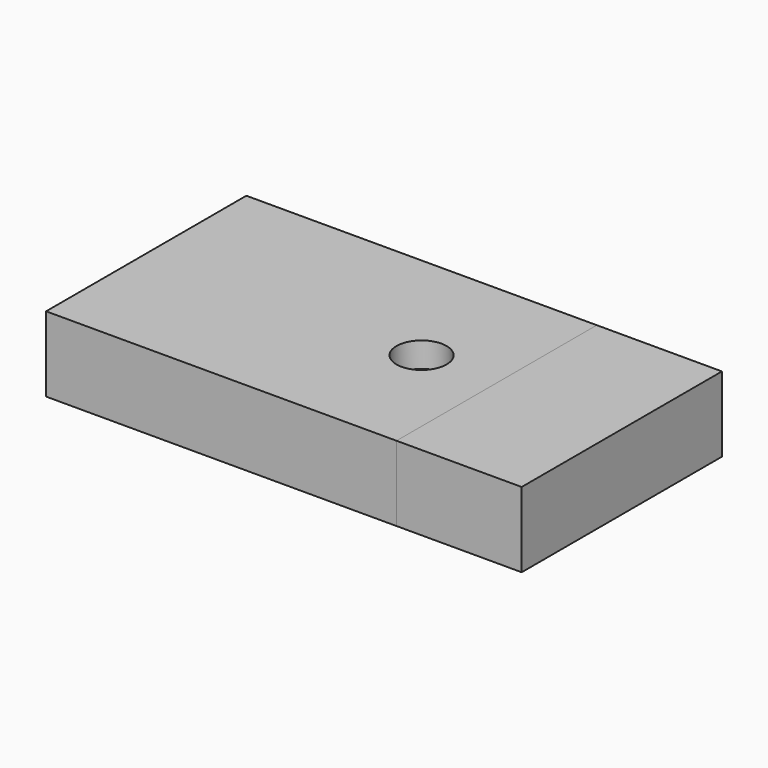
from build123d import *

# Parameters (mm, degrees)
F0_W     = 14
F0_H     = 10
F2_DEPTH = 3
F4_DEPTH = 10
F6_DEPTH = 10
F7_W     = 10
F7_H     = 3
F8_DEPTH = 5
F10_D    = 2
F10_2_D  = 2


with BuildPart() as f2:
    # F0 (on Top) → F2 (new body)
    with BuildSketch(Plane.XY):
        with Locations((-7, 0)):
            Rectangle(F0_W, F0_H)
    extrude(amount=F2_DEPTH)

    # F3 (on face) → F4 (cut)
    with BuildSketch(Plane.YZ):
        Polygon((-1, 0), (0, 0), (1, 0), (2, 2), (0, 2), (-2, 2), align=None)
    extrude(amount=-F4_DEPTH, mode=Mode.SUBTRACT)

    # F10 (through all)
    with Locations(Plane.XY.offset(3)):
        with Locations((-3, 0)):
            Hole(F10_D / 2)


with BuildPart() as f6:
    # F5 (on face) → F6 (new body)
    with BuildSketch(Plane.YZ.offset(-10)):
        Polygon((-1.6763932023, 1.8), (-0.8211145618, 0.0894427191), (-0.7763932023, 0), (0, 0), (0.7763932023, 0), (0.8211145618, 0.0894427191), (1.6763932023, 1.8), align=None)
    extrude(amount=F6_DEPTH)

    # F7 (on face) → F8 (join)
    with BuildSketch(Plane.YZ):
        with Locations((0, 1.5)):
            Rectangle(F7_W, F7_H)
    extrude(amount=F8_DEPTH)

    # F10#2 (through all)
    with Locations(Plane.XY.offset(3)):
        with Locations((-3, 0)):
            Hole(F10_2_D / 2)


solid = Compound([f2.part, f6.part])
